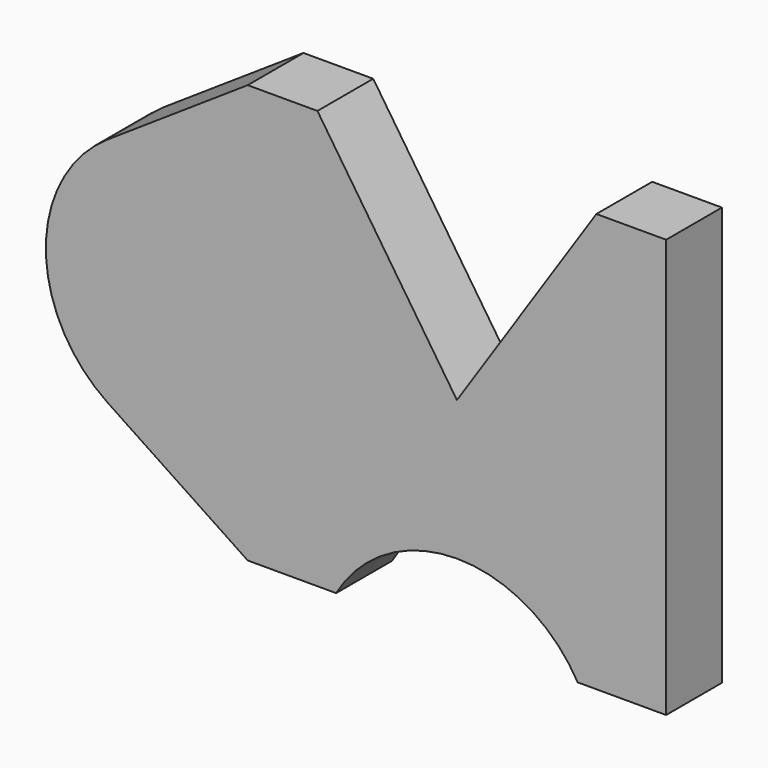
from build123d import *

# Parameters (mm, degrees)
F1_DEPTH = 10


with BuildPart() as f1:
    # F0 (on Front) → F1 (new body)
    with BuildSketch(Plane.XZ):
        with BuildLine():
            Line((0, 0), (-20, 30))
            Line((-20, 30), (-30, 30))
            Line((-30, 30), (-50.038491, 16.641006))
            ThreePointArc((-50.038491, 16.641006), (-58.944487, 0), (-50.038491, -16.641006))
            Line((-50.038491, -16.641006), (-30, -30))
            Line((-30, -30), (-17.320508, -30))
            ThreePointArc((-17.320508, -30), (0, -20), (17.320508, -30))
            Line((17.320508, -30), (30, -30))
            Line((30, -30), (30, 30))
            Line((30, 30), (20, 30))
            Line((20, 30), (0, 0))
        make_face()
    extrude(amount=F1_DEPTH)


solid = f1.part
